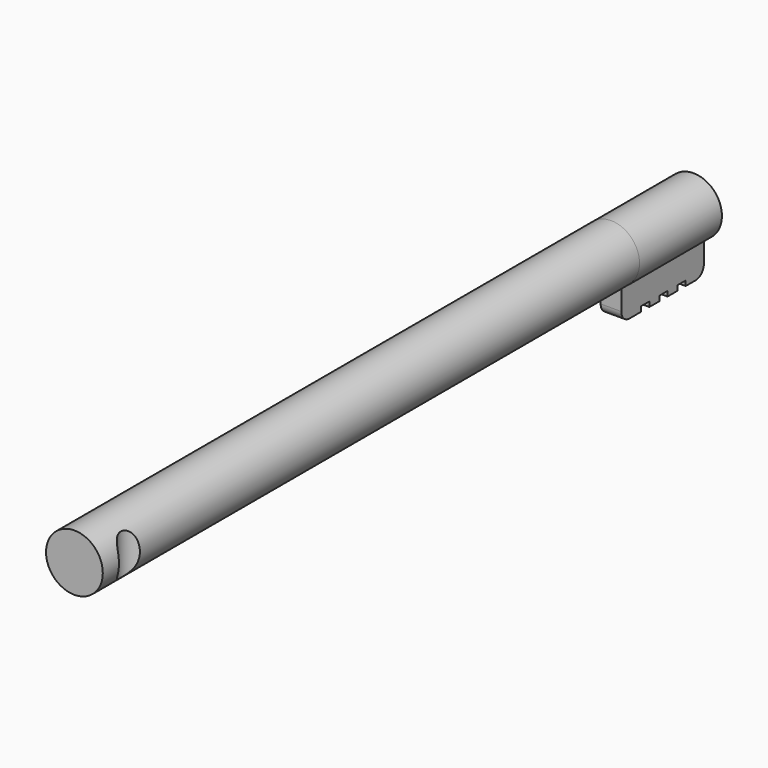
from build123d import *

# Parameters (mm, degrees)
PAD003_DEPTH    = 10
SKETCH021_R     = 2.75
PAD009_DEPTH    = 65
SKETCH022_R     = 1.385036
POCKET011_DEPTH = 9
SKETCH043_W     = 2.1
SKETCH043_H     = 1
POCKET021_DEPTH = 0.48
FILLET007_R     = 1


with BuildPart() as part:
    # Sketch007 → Pad003 (new body)
    with BuildSketch(Plane(origin=(-20, 60, -6), x_dir=(1, 0, 0), z_dir=(0, -1, 0))):
        with BuildLine():
            ThreePointArc((44.81, 1.629576), (43.81, 6.941314), (42.81, 1.629576))
            Line((42.81, -1.470424), (42.81, 1.629576))
            Line((44.81, -1.470424), (42.81, -1.470424))
            Line((44.81, 1.629576), (44.81, -1.470424))
        make_face()
    extrude(amount=PAD003_DEPTH)

    # Sketch021 (on Face6 of Pad003) → Pad009 (join)
    with BuildSketch(Plane.XZ.offset(-50)):
        with Locations((23.824507, -1.786051)):
            Circle(SKETCH021_R)
    extrude(amount=PAD009_DEPTH)

    # Sketch022 → Pocket011 (cut)
    with BuildSketch(Plane.XY.offset(2)):
        with Locations((27.12612, -11.774689)):
            Circle(SKETCH022_R)
    extrude(amount=-POCKET011_DEPTH, mode=Mode.SUBTRACT)

    # Sketch043 (on Face7 of Pocket011) → Pocket021 (cut)
    with BuildSketch(Plane(origin=(0, 0, -7.470424), x_dir=(1, 0, 0), z_dir=(0, 0, -1))):
        with Locations((23.804798, -57.3)):
            Rectangle(SKETCH043_W, SKETCH043_H)
        with Locations((23.804798, -52.9)):
            Rectangle(SKETCH043_W, SKETCH043_H)
        with Locations((23.804798, -55.1)):
            Rectangle(SKETCH043_W, SKETCH043_H)
    extrude(amount=-POCKET021_DEPTH, mode=Mode.SUBTRACT)

    # Fillet007
    fillet007_edges = [part.edges().sort_by_distance(p)[0] for p in [
        (23.81, 50, -7.470424),
        (23.81, 60, -7.470424),
    ]]
    fillet(fillet007_edges, radius=FILLET007_R)


with BuildPart() as part_1:
    # Body002 placement: moved
    add(part.part.moved(Location((0, -0.4, -1.5))))


solid = part_1.part
